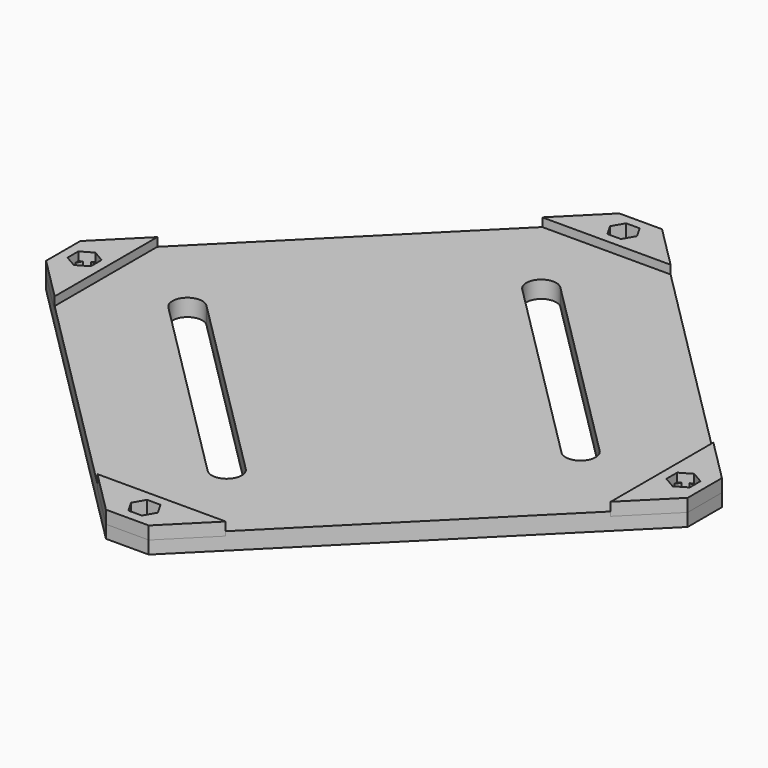
from build123d import *

# Parameters (mm, degrees)
EXTRUDE_DEPTH              = 4
EXTRUDE004_DEPTH           = 3
EXTRUDE004_PLACEMENT_ANGLE = -90
EXTRUDE003_DEPTH           = 3
EXTRUDE003_PLACEMENT_ANGLE = 90
EXTRUDE002_DEPTH           = 3
EXTRUDE002_PLACEMENT_ANGLE = 180
EXTRUDE001_DEPTH           = 3


with BuildPart() as extrude_body:
    # Sketch → Extrude (new body)
    with BuildSketch(Plane.XY):
        Polygon((-5, 75), (5, 75), (75, 5), (75, -5), (5, -75), (-5, -75), (-75, -5), (-75, 5), align=None)
        with BuildLine():
            ThreePointArc((-43.487067, 2.474874), (-48.436815, 2.474874), (-48.436815, -2.474874))
            Line((-48.436815, -2.474874), (-2.474874, -48.436815))
            ThreePointArc((-2.474874, -48.436815), (2.474874, -48.436815), (2.474874, -43.487067))
            Line((-43.487067, 2.474874), (2.474874, -43.487067))
        make_face(mode=Mode.SUBTRACT)
        with BuildLine():
            ThreePointArc((2.474874, 48.436815), (-2.474874, 48.436815), (-2.474874, 43.487067))
            Line((-2.474874, 43.487067), (43.487067, -2.474874))
            ThreePointArc((43.487067, -2.474874), (48.436815, -2.474874), (48.436815, 2.474874))
            Line((2.474874, 48.436815), (48.436815, 2.474874))
        make_face(mode=Mode.SUBTRACT)
        Polygon((-71.575, 2.72798), (-68.425, 2.72798), (-66.85, 0), (-68.425, -2.72798), (-71.575, -2.72798), (-73.15, 0), align=None, mode=Mode.SUBTRACT)
        Polygon((-1.575, 72.72798), (1.575, 72.72798), (3.15, 70), (1.575, 67.27202), (-1.575, 67.27202), (-3.15, 70), align=None, mode=Mode.SUBTRACT)
        Polygon((68.425, 2.72798), (71.575, 2.72798), (73.15, 0), (71.575, -2.72798), (68.425, -2.72798), (66.85, 0), align=None, mode=Mode.SUBTRACT)
        Polygon((-1.575, -67.27202), (1.575, -67.27202), (3.15, -70), (1.575, -72.72798), (-1.575, -72.72798), (-3.15, -70), align=None, mode=Mode.SUBTRACT)
    extrude(amount=EXTRUDE_DEPTH)


with BuildPart() as extrude004:
    # Sketch001 → Extrude004 (new body)
    with BuildSketch(Plane.XY):
        Polygon((-5, 0), (5, 0), (15, -10), (-15, -10), align=None)
        Polygon((1.575, -7.72798), (3.15, -5), (1.575, -2.27202), (-1.575, -2.27202), (-3.15, -5), (-1.575, -7.72798), align=None, mode=Mode.SUBTRACT)
    extrude(amount=EXTRUDE004_DEPTH)


with BuildPart() as extrude004_1:
    # Extrude004 placement: moved
    add(extrude004.part.moved(Location((75, 0, 3))).rotate(Axis((75, 0, 3), (0, 0, 1)), EXTRUDE004_PLACEMENT_ANGLE))


with BuildPart() as extrude003:
    # Sketch001 → Extrude003 (new body)
    with BuildSketch(Plane.XY):
        Polygon((-5, 0), (5, 0), (15, -10), (-15, -10), align=None)
        Polygon((1.575, -7.72798), (3.15, -5), (1.575, -2.27202), (-1.575, -2.27202), (-3.15, -5), (-1.575, -7.72798), align=None, mode=Mode.SUBTRACT)
    extrude(amount=EXTRUDE003_DEPTH)


with BuildPart() as extrude003_1:
    # Extrude003 placement: moved
    add(extrude003.part.moved(Location((-75, 0, 3))).rotate(Axis((-75, 0, 3), (0, 0, 1)), EXTRUDE003_PLACEMENT_ANGLE))


with BuildPart() as extrude002:
    # Sketch001 → Extrude002 (new body)
    with BuildSketch(Plane.XY):
        Polygon((-5, 0), (5, 0), (15, -10), (-15, -10), align=None)
        Polygon((1.575, -7.72798), (3.15, -5), (1.575, -2.27202), (-1.575, -2.27202), (-3.15, -5), (-1.575, -7.72798), align=None, mode=Mode.SUBTRACT)
    extrude(amount=EXTRUDE002_DEPTH)


with BuildPart() as extrude002_1:
    # Extrude002 placement: moved
    add(extrude002.part.moved(Location((0, -75, 3))).rotate(Axis((0, -75, 3), (0, 0, 1)), EXTRUDE002_PLACEMENT_ANGLE))


with BuildPart() as nutpads:
    # Sketch001 → Extrude001 (new body)
    with BuildSketch(Plane.XY):
        Polygon((-5, 0), (5, 0), (15, -10), (-15, -10), align=None)
        Polygon((1.575, -7.72798), (3.15, -5), (1.575, -2.27202), (-1.575, -2.27202), (-3.15, -5), (-1.575, -7.72798), align=None, mode=Mode.SUBTRACT)
    extrude(amount=EXTRUDE001_DEPTH)


with BuildPart() as nutpads_1:
    # Extrude001 placement: moved
    add(nutpads.part.moved(Location((0, 75, 3))))

    # Fusion: union Extrude004, Extrude003, Extrude002
    add(extrude004_1.part)
    add(extrude003_1.part)
    add(extrude002_1.part)


solid = Compound([extrude_body.part, nutpads_1.part])
